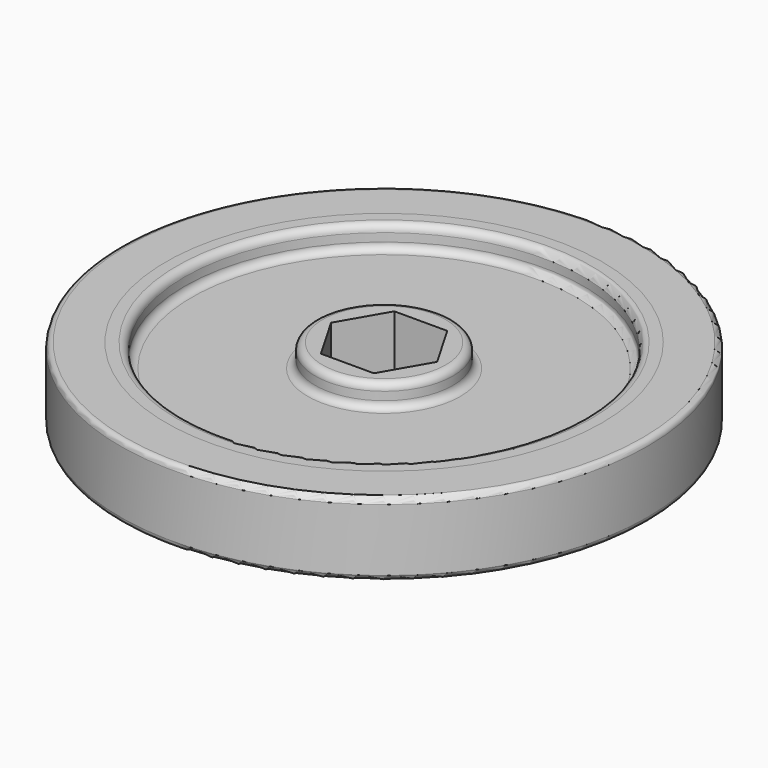
from build123d import *

# Parameters (mm, degrees)
F0_R          = 30.1625
F0_R_2        = 27.6225
F0_R_3        = 9.525
F1_DEPTH      = 5.08
F2_DEPTH      = 1.905
F0_R_4        = 36.5125
F3_DEPTH      = 5.08
F3_DEPTH_BACK = 5.08
F4_R          = 1.016
F5_R          = 0.762


with BuildPart() as f1:
    # F0 (on Top) → F1 (new body, symmetric)
    with BuildSketch(Plane.XY):
        Circle(F0_R)
        Circle(F0_R_2, mode=Mode.SUBTRACT)
        Circle(F0_R_3)
        Polygon((7.332348, 0), (3.666174, -6.35), (-3.666174, -6.35), (-7.332348, 0), (-3.666174, 6.35), (3.666174, 6.35), align=None, mode=Mode.SUBTRACT)
    extrude(amount=F1_DEPTH, both=True)

    # F0 (on Top) → F2 (join, symmetric)
    with BuildSketch(Plane.XY):
        Circle(F0_R_2)
        Circle(F0_R_3, mode=Mode.SUBTRACT)
    extrude(amount=F2_DEPTH, both=True)

    # F4
    f4_edges = [f1.edges().sort_by_distance(p)[0] for p in [
        (-27.6225, 0, 1.905),
        (-9.525, 0, 1.905),
        (-27.6225, 0, -1.905),
        (-9.525, 0, -1.905),
        (-27.6225, 0, -5.08),
        (-9.525, 0, -5.08),
        (-9.525, 0, 5.08),
        (-27.6225, 0, 5.08),
    ]]
    fillet(f4_edges, radius=F4_R)


with BuildPart() as f3:
    # F0 (on Top) → F3 (new body, two sides)
    with BuildSketch(Plane.XY) as f3_sk:
        Circle(F0_R_4)
        Circle(F0_R, mode=Mode.SUBTRACT)
    extrude(amount=F3_DEPTH)
    extrude(f3_sk.sketch, amount=-F3_DEPTH_BACK)

    # F5
    f5_edges = [f3.edges().sort_by_distance(p)[0] for p in [
        (36.5125, 0, 2.54),
        (-36.5125, 0, 0),
        (-36.5125, 0, 5.08),
    ]]
    fillet(f5_edges, radius=F5_R)


solid = Compound([f1.part, f3.part])
